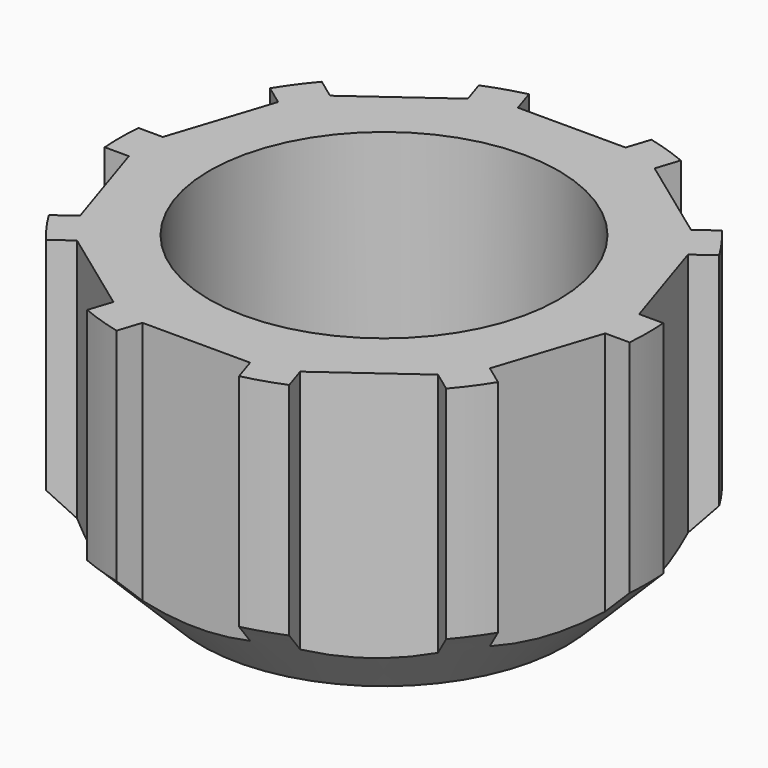
from build123d import *

# Parameters (mm, degrees)
F0_R     = 64.619688
F2_DEPTH = 74
F1_R     = 42.736697
F3_DEPTH = 74.001
F4_SIZE  = 20
F6_DEPTH = 102


with BuildPart() as f2:
    # F0 (on Top) → F2 (new body)
    with BuildSketch(Plane.XY):
        Circle(F0_R)
    extrude(amount=F2_DEPTH)

    # F1 (on Top) → F3 (cut, through all)
    with BuildSketch(Plane.XY):
        Circle(F1_R)
    extrude(amount=F3_DEPTH, mode=Mode.SUBTRACT)

    # F4
    f4_edges = [f2.edges().sort_by_distance(p)[0] for p in [
        (-64.619688, 0, 0),
    ]]
    chamfer(f4_edges, length=F4_SIZE)

    # F5 (on Top) → F6 (cut)
    with BuildSketch(Plane.XY):
        Polygon((-21.568869, -82.25935), (-0.245193, -97.784208), (21.109202, -82.301633), (12.983269, -57.208017), (-13.393229, -57.181884), align=None)
        Polygon((22.775318, -54.133459), (30.901251, -79.227075), (57.27775, -79.253207), (65.453389, -54.175742), (44.129714, -38.650883), align=None)
        Polygon((50.244468, -30.407892), (71.568144, -45.93275), (92.922539, -30.450175), (84.796606, -5.356559), (58.420108, -5.330426), align=None)
        Polygon((58.521939, 4.932456), (84.898438, 4.906324), (93.074077, 29.983789), (71.750402, 45.508648), (50.396006, 30.026072), align=None)
        Polygon((44.446018, 38.388774), (65.800414, 53.871349), (57.674481, 78.964965), (31.297982, 78.991097), (23.122343, 53.913632), align=None)
        Polygon((13.393229, 57.181884), (21.568869, 82.25935), (0.245193, 97.784208), (-21.109202, 82.301633), (-12.983269, 57.208017), align=None)
        Polygon((-22.775318, 54.133459), (-30.901251, 79.227075), (-57.27775, 79.253207), (-65.453389, 54.175742), (-44.129714, 38.650883), align=None)
        Polygon((-50.244468, 30.407892), (-71.568144, 45.93275), (-92.922539, 30.450175), (-84.796606, 5.356559), (-58.420108, 5.330426), align=None)
        Polygon((-58.521939, -4.932456), (-84.898438, -4.906324), (-93.074077, -29.983789), (-71.750402, -45.508648), (-50.396006, -30.026072), align=None)
        Polygon((-44.446018, -38.388774), (-65.800414, -53.871349), (-57.674481, -78.964965), (-31.297982, -78.991097), (-23.122343, -53.913632), align=None)
    extrude(amount=F6_DEPTH, mode=Mode.SUBTRACT)


solid = f2.part
